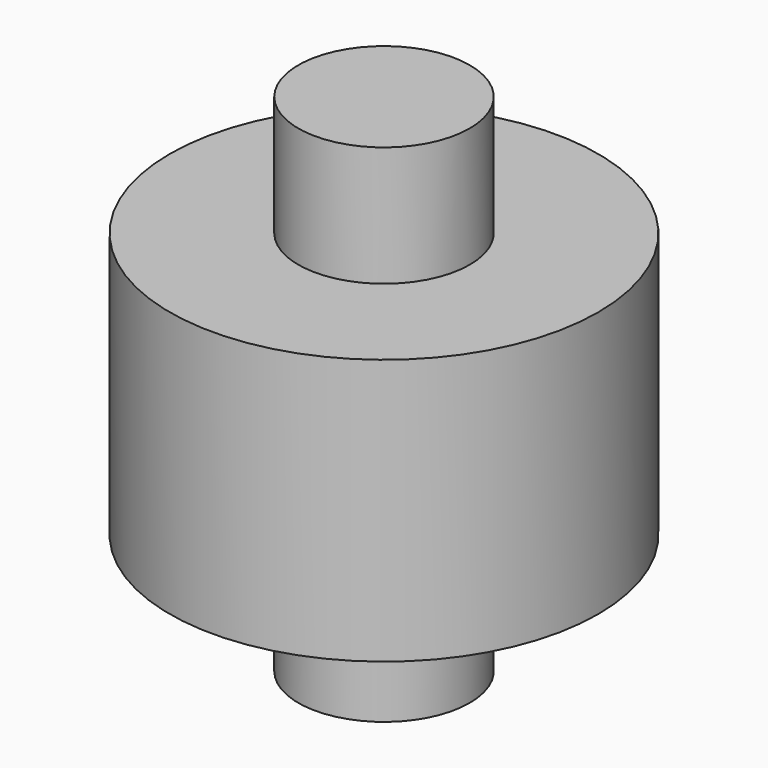
from build123d import *

# Parameters (mm, degrees)
F0_R     = 6.35
F0_R_2   = 2.54
F1_DEPTH = 7.874
F2_R     = 2.54
F3_DEPTH = 11.43
F4_R     = 2.54
F5_DEPTH = 3.556


with BuildPart() as f1:
    # F0 (on Top) → F1 (new body)
    with BuildSketch(Plane.XY):
        Circle(F0_R)
        Circle(F0_R_2, mode=Mode.SUBTRACT)
    extrude(amount=F1_DEPTH)

    # F2 (on Top) → F3 (join)
    with BuildSketch(Plane.XY):
        Circle(F2_R)
    extrude(amount=F3_DEPTH)

    # F4 (on Top) → F5 (join)
    with BuildSketch(Plane.XY):
        Circle(F4_R)
    extrude(amount=-F5_DEPTH)


solid = f1.part
